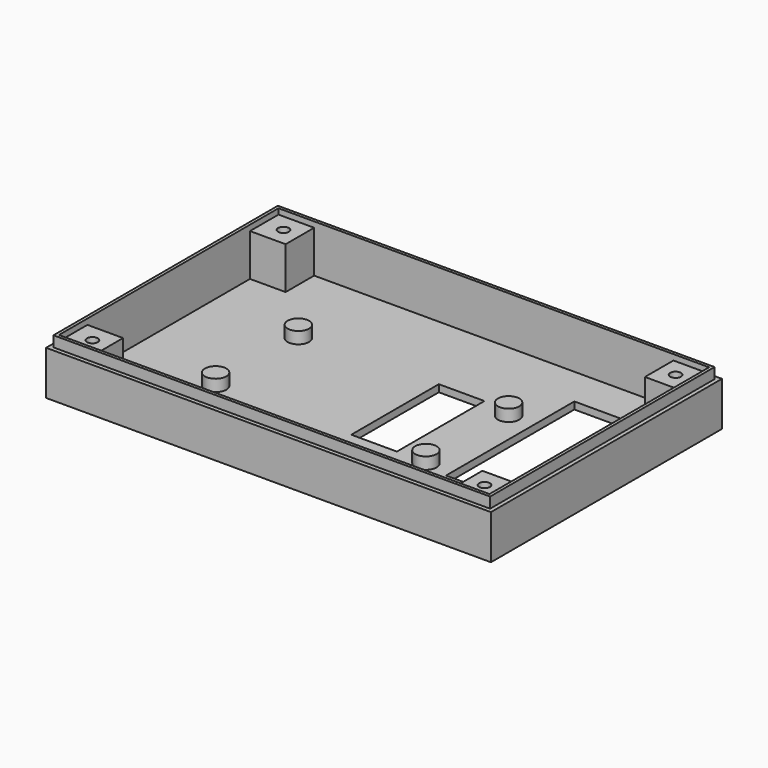
from build123d import *

# Parameters (mm, degrees)
F0_W      = 124.8
F0_H      = 81
F1_DEPTH  = 15.39
F2_W      = 120.8
F2_H      = 77
F3_DEPTH  = 13.39
F4_W      = 124.8
F4_H      = 3
F5_DEPTH  = 1.15
F6_W      = 124.8
F6_H      = 3
F7_DEPTH  = 1.15
F8_W      = 78.7
F8_H      = 3
F9_DEPTH  = 1.15
F10_W     = 78.7
F10_H     = 3
F11_DEPTH = 1.15
F12_W     = 10
F12_H     = 10
F13_DEPTH = 11.82
F14_W     = 10
F14_H     = 10
F15_DEPTH = 11.82
F16_W     = 10
F16_H     = 10
F17_DEPTH = 11.82
F18_W     = 10
F18_H     = 10
F19_DEPTH = 11.82
F20_R     = 1.5
F21_DEPTH = 11.82
F22_R     = 1.5
F23_DEPTH = 11.82
F24_R     = 1.5
F25_DEPTH = 11.82
F26_R     = 1.5
F27_DEPTH = 11.82
F28_W     = 26
F28_H     = 45
F29_DEPTH = 2.001
F30_W     = 12.8
F30_H     = 30.7
F31_DEPTH = 2.001
F32_W     = 17
F32_H     = 12.8
F33_DEPTH = 2.001
F34_R     = 3
F35_DEPTH = 3.3


with BuildPart() as f1:
    # F0 (on Top) → F1 (new body)
    with BuildSketch(Plane.XY):
        Rectangle(F0_W, F0_H)
    extrude(amount=F1_DEPTH)

    # F2 (on face) → F3 (cut)
    with BuildSketch(Plane.XY.offset(15.39)):
        Rectangle(F2_W, F2_H)
    extrude(amount=-F3_DEPTH, mode=Mode.SUBTRACT)

    # F4 (on face) → F5 (cut)
    with BuildSketch(Plane(origin=(0, 40.5, 0), x_dir=(-1, 0, 0), z_dir=(0, 1, 0))):
        with Locations((0, 13.89)):
            Rectangle(F4_W, F4_H)
    extrude(amount=-F5_DEPTH, mode=Mode.SUBTRACT)

    # F6 (on face) → F7 (cut)
    with BuildSketch(Plane.XZ.offset(40.5)):
        with Locations((0, 13.89)):
            Rectangle(F6_W, F6_H)
    extrude(amount=-F7_DEPTH, mode=Mode.SUBTRACT)

    # F8 (on face) → F9 (cut)
    with BuildSketch(Plane(origin=(-62.4, 0, 0), x_dir=(0, -1, 0), z_dir=(-1, 0, 0))):
        with Locations((0, 13.89)):
            Rectangle(F8_W, F8_H)
    extrude(amount=-F9_DEPTH, mode=Mode.SUBTRACT)

    # F10 (on face) → F11 (cut)
    with BuildSketch(Plane.YZ.offset(62.4)):
        with Locations((0, 13.89)):
            Rectangle(F10_W, F10_H)
    extrude(amount=-F11_DEPTH, mode=Mode.SUBTRACT)

    # F12 (on face) → F13 (join)
    with BuildSketch(Plane.XY.offset(2)):
        with Locations((-55.4, 33.5)):
            Rectangle(F12_W, F12_H)
    extrude(amount=F13_DEPTH)

    # F14 (on face) → F15 (join)
    with BuildSketch(Plane.XY.offset(2)):
        with Locations((-55.4, -33.5)):
            Rectangle(F14_W, F14_H)
    extrude(amount=F15_DEPTH)

    # F16 (on face) → F17 (join)
    with BuildSketch(Plane.XY.offset(2)):
        with Locations((55.4, -33.5)):
            Rectangle(F16_W, F16_H)
    extrude(amount=F17_DEPTH)

    # F18 (on face) → F19 (join)
    with BuildSketch(Plane.XY.offset(2)):
        with Locations((55.4, 33.5)):
            Rectangle(F18_W, F18_H)
    extrude(amount=F19_DEPTH)

    # F20 (on face) → F21 (cut)
    with BuildSketch(Plane.XY.offset(13.82)):
        with Locations((-55, 33.5)):
            Circle(F20_R)
        with Locations((-55, 33.5)):
            Circle(F20_R)
    extrude(amount=-F21_DEPTH, mode=Mode.SUBTRACT)

    # F22 (on face) → F23 (cut)
    with BuildSketch(Plane.XY.offset(13.82)):
        with Locations((-55, -33.5)):
            Circle(F22_R)
    extrude(amount=-F23_DEPTH, mode=Mode.SUBTRACT)

    # F24 (on face) → F25 (cut)
    with BuildSketch(Plane.XY.offset(13.82)):
        with Locations((55, -33.5)):
            Circle(F24_R)
    extrude(amount=-F25_DEPTH, mode=Mode.SUBTRACT)

    # F26 (on face) → F27 (cut)
    with BuildSketch(Plane.XY.offset(13.82)):
        with Locations((55, 33.5)):
            Circle(F26_R)
    extrude(amount=-F27_DEPTH, mode=Mode.SUBTRACT)

    # F28 (on face) → F29 (cut, through all)
    with BuildSketch(Plane.XY.offset(2)):
        with Locations((44.4, 5)):
            Rectangle(F28_W, F28_H)
    extrude(amount=-F29_DEPTH, mode=Mode.SUBTRACT)

    # F30 (on face) → F31 (cut, through all)
    with BuildSketch(Plane.XY.offset(2)):
        with Locations((9.5, 0)):
            Rectangle(F30_W, F30_H)
    extrude(amount=-F31_DEPTH, mode=Mode.SUBTRACT)

    # F32 (on face) → F33 (cut, through all)
    with BuildSketch(Plane.XY.offset(2)):
        with Locations((24.9, -29.1)):
            Rectangle(F32_W, F32_H)
    extrude(amount=-F33_DEPTH, mode=Mode.SUBTRACT)

    # F34 (on face) → F35 (join)
    with BuildSketch(Plane.XY.offset(2)):
        with Locations((24.4, 13.2)):
            Circle(F34_R)
        with Locations((24.4, -15.8)):
            Circle(F34_R)
        with Locations((-34.6, 13.2)):
            Circle(F34_R)
        with Locations((-34.6, -15.8)):
            Circle(F34_R)
    extrude(amount=F35_DEPTH)


solid = f1.part
